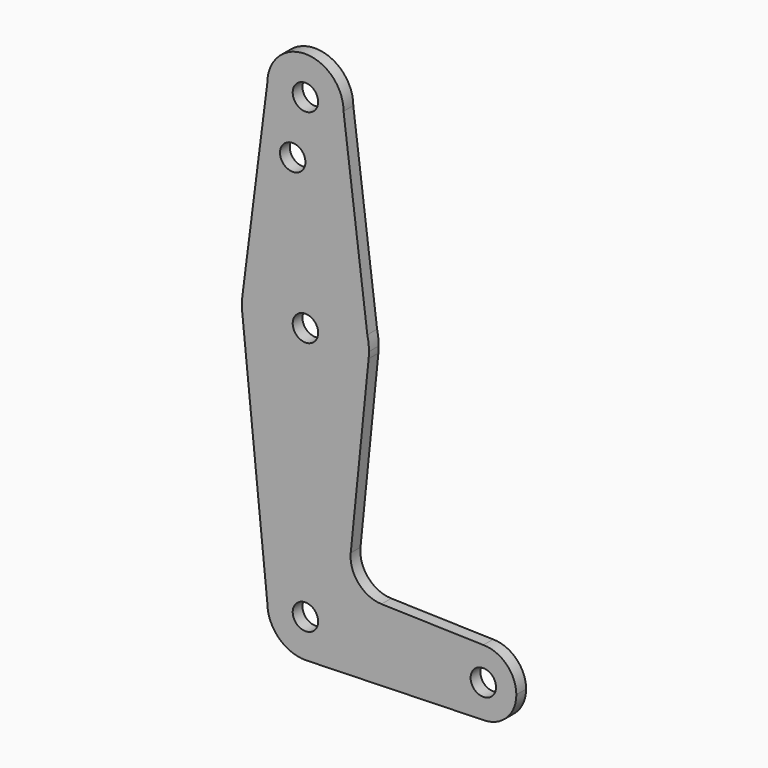
from build123d import *

# Parameters (mm, degrees)
F0_R     = 3.175
F1_DEPTH = 3.048


with BuildPart() as f1:
    # F0 (on Front) → F1 (new body)
    with BuildSketch(Plane.XZ):
        with BuildLine():
            Line((15.473148, 67.04927), (9.525, 114.3))
            ThreePointArc((9.525, 114.3), (0, 104.775), (-9.525, 114.3))
            Line((-9.525, 114.3), (-15.700004, 65.850638))
            ThreePointArc((-15.700004, 65.850638), (-0.609955, 79.363278), (15.473148, 67.04927))
        make_face()
        with Locations((-3.175, 100.0252)):
            Circle(F0_R, mode=Mode.SUBTRACT)
        with BuildLine():
            Line((11.320911, 17.732326), (15.794203, 61.90038))
            ThreePointArc((15.794203, 61.90038), (0.095622, 47.625288), (-15.773787, 61.710229))
            Line((-15.773787, 61.710229), (-9.525, 0))
            ThreePointArc((-9.525, 0), (0, 9.525), (9.525, 0))
            ThreePointArc((9.525, 0), (6.924308, -6.540611), (0.542409, -9.509543))
            Line((0.542409, -9.509543), (44.685139, -8.25165))
            ThreePointArc((44.685139, -8.25165), (36.195837, -0.117582), (44.45, 8.255))
            Line((44.45, 8.255), (19.002893, 8.984299))
            ThreePointArc((19.002893, 8.984299), (13.256814, 11.685381), (11.320911, 17.732326))
        make_face()
        with BuildLine():
            ThreePointArc((15.875, 63.5), (15.774217, 65.285973), (15.473148, 67.04927))
            ThreePointArc((15.473148, 67.04927), (-0.609955, 79.363278), (-15.700004, 65.850638))
            ThreePointArc((-15.700004, 65.850638), (-15.867912, 63.974334), (-15.812379, 62.091351))
            Line((-15.812379, 62.091351), (-15.773787, 61.710229))
            ThreePointArc((-15.773787, 61.710229), (0.095622, 47.625288), (15.794203, 61.90038))
            ThreePointArc((15.794203, 61.90038), (15.854788, 62.699171), (15.875, 63.5))
        make_face()
        with Locations((0, 63.5)):
            Circle(F0_R, mode=Mode.SUBTRACT)
        with BuildLine():
            ThreePointArc((-9.525, 114.3), (0, 104.775), (9.525, 114.3))
            ThreePointArc((9.525, 114.3), (0, 123.825), (-9.525, 114.3))
        make_face()
        with Locations((0, 114.3)):
            Circle(F0_R, mode=Mode.SUBTRACT)
        with BuildLine():
            ThreePointArc((9.525, 0), (0, 9.525), (-9.525, 0))
            ThreePointArc((-9.525, 0), (-6.735192, -6.735192), (0, -9.525))
            Line((0, -9.525), (0.542409, -9.509543))
            ThreePointArc((0.542409, -9.509543), (6.924308, -6.540611), (9.525, 0))
        make_face()
        Circle(F0_R, mode=Mode.SUBTRACT)
        with BuildLine():
            ThreePointArc((52.705, 0), (50.287166, 5.837166), (44.45, 8.255))
            ThreePointArc((44.45, 8.255), (36.195837, -0.117582), (44.685139, -8.25165))
            ThreePointArc((44.685139, -8.25165), (50.369717, -5.753432), (52.705, 0))
        make_face()
        with Locations((44.45, 0)):
            Circle(F0_R, mode=Mode.SUBTRACT)
    extrude(amount=F1_DEPTH)


solid = f1.part
